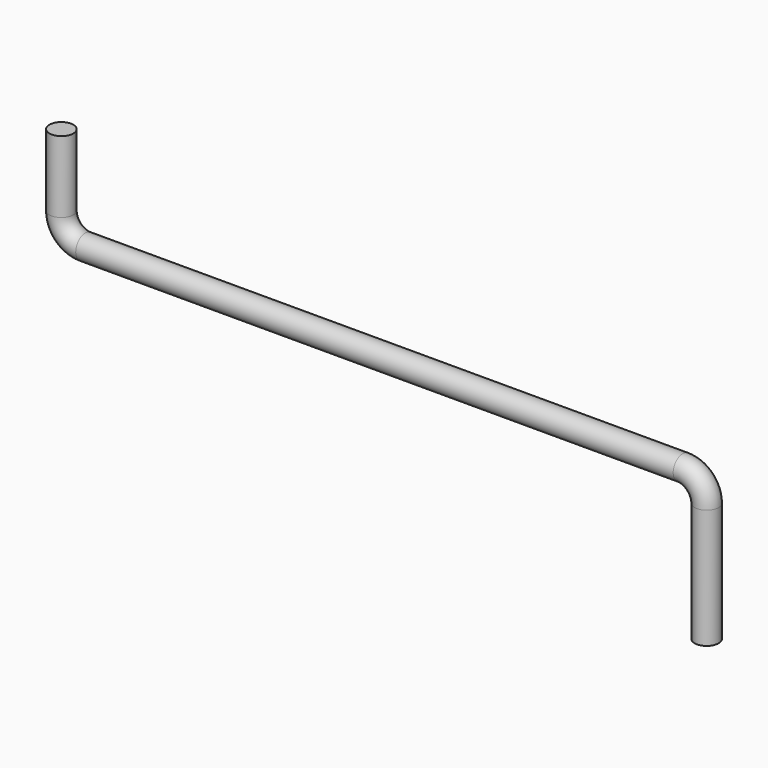
from build123d import *

# Parameters (mm, degrees)
F0_W      = 0.5
F0_H      = 1
F1_FACE_R = 0.5


with BuildPart() as f1:
    # F0 (on Front) → F1 (revolve)
    with BuildSketch(Plane.XZ):
        with Locations((-13.25, 3.5)):
            Rectangle(F0_W, F0_H)
    revolve(axis=Axis((-13.5, 0, 3.5), (0, 0, 1)))

    # F2: sweep along a path in F0
    with BuildLine(Plane.XZ) as f2_path:
        Line((-13.5, 3), (-13.5, 1))
        ThreePointArc((-13.5, 1), (-13.2071067812, 0.2928932188), (-12.5, 0))
        Line((-12.5, 0), (12.5, 0))
        ThreePointArc((12.5, 0), (13.2071067812, -0.2928932188), (13.5, -1))
        Line((13.5, -1), (13.5, -6))
    # F1_face (on face) → F2 (sweep)
    with BuildSketch(Plane(origin=(-13.5, 0, 3), x_dir=(1, 0, 0), z_dir=(0, 0, -1))):
        Circle(F1_FACE_R)
    sweep(path=f2_path.line)


solid = f1.part
